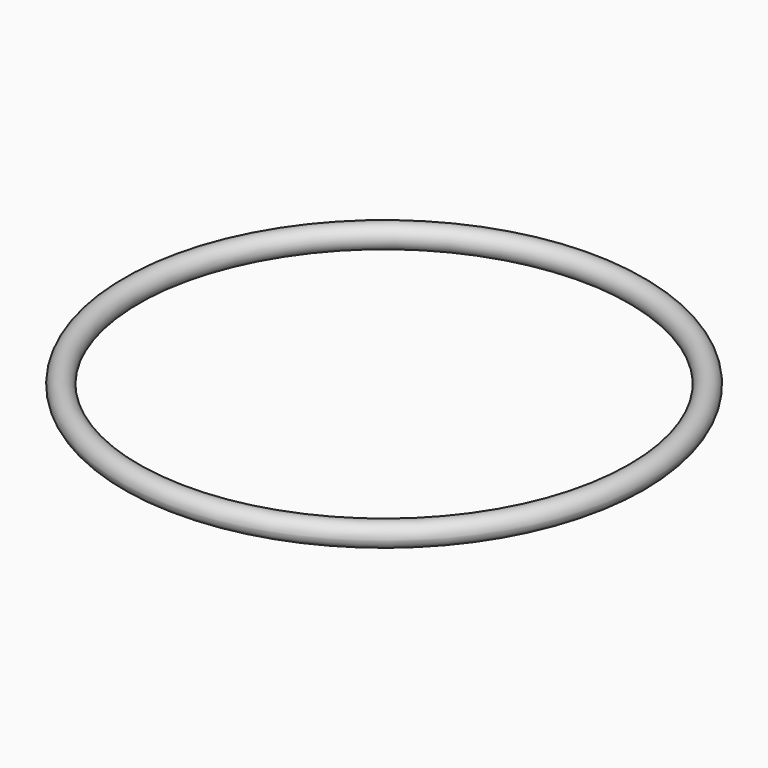
from build123d import *

# Parameters (mm, degrees)
F0_R = 1.5875


with BuildPart() as f2:
    # F2: sweep along a path in F1
    with BuildLine(Plane.XY) as f2_path:
        CenterArc((0.053663, -34.924959), 34.925, 0, 360)
    # F0 (on Right) → F2 (sweep)
    with BuildSketch(Plane.YZ):
        Circle(F0_R)
    sweep(path=f2_path.line)


solid = f2.part
